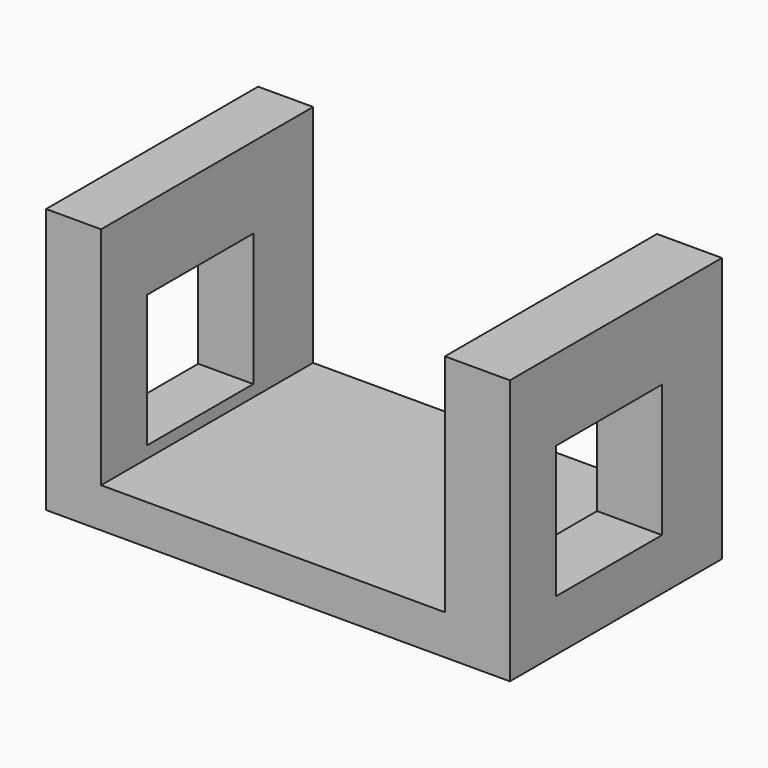
from build123d import *

# Parameters (mm, degrees)
F0_W     = 50.8
F0_H     = 50.8
F0_W_2   = 25.4
F0_H_2   = 25.4
F1_DEPTH = 88.9
F2_W     = 65.903696
F2_H     = 43.18
F3_DEPTH = 50.8


with BuildPart() as f1:
    # F0 (on Right) → F1 (new body)
    with BuildSketch(Plane.YZ):
        with Locations((8.370453, -3.046589)):
            Rectangle(F0_W, F0_H)
        with Locations((6.725227, -5.875227)):
            Rectangle(F0_W_2, F0_H_2, mode=Mode.SUBTRACT)
    extrude(amount=F1_DEPTH)

    # F2 (on face) → F3 (cut)
    with BuildSketch(Plane(origin=(0, 33.770453, 0), x_dir=(-1, 0, 0), z_dir=(0, 1, 0))):
        with Locations((-43.497203, 0.763411)):
            Rectangle(F2_W, F2_H)
    extrude(amount=-F3_DEPTH, mode=Mode.SUBTRACT)


solid = f1.part
